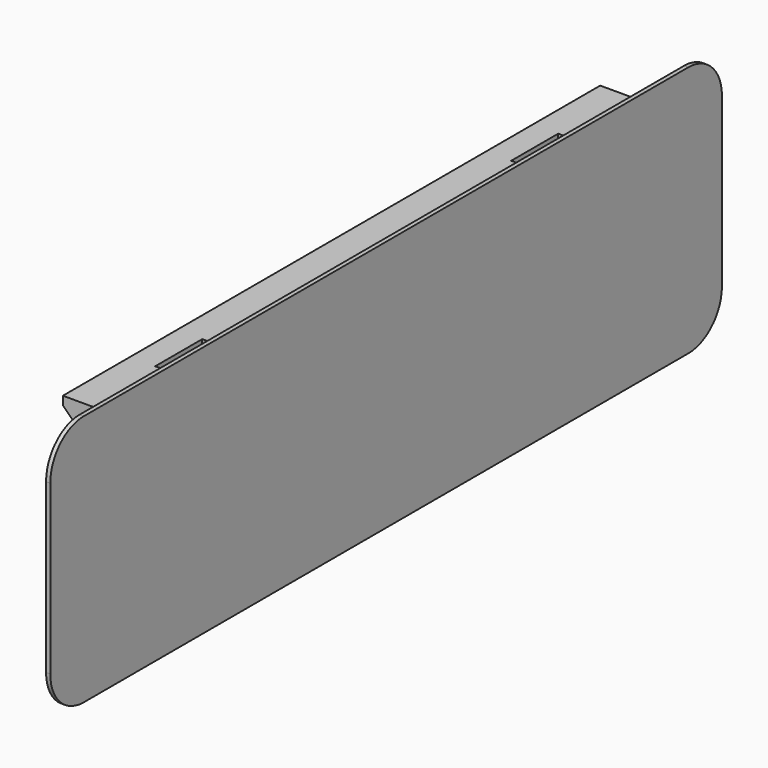
from build123d import *

# Parameters (mm, degrees)
F1_DEPTH = 0.5
F2_W     = 80
F2_H     = 3
F3_DEPTH = 6
F4_W     = 2
F4_H     = 7
F5_DEPTH = 80
F6_SIZE  = 2


with BuildPart() as f1:
    # F0 (on Right) → F1 (new body)
    with BuildSketch(Plane.YZ):
        with BuildLine():
            ThreePointArc((-50, -10), (-48.535534, -13.535534), (-45, -15))
            Line((-45, -15), (45, -15))
            ThreePointArc((45, -15), (48.535534, -13.535534), (50, -10))
            Line((50, -10), (50, 10))
            ThreePointArc((50, 10), (48.535534, 13.535534), (45, 15))
            Line((45, 15), (-45, 15))
            ThreePointArc((-45, 15), (-48.535534, 13.535534), (-50, 10))
            Line((-50, 10), (-50, -10))
        make_face()
    extrude(amount=F1_DEPTH)

    # F2 (on face) → F3 (join)
    with BuildSketch(Plane(origin=(0, 0, 0), x_dir=(0, -1, 0), z_dir=(-1, 0, 0))):
        with Locations((0, 11.5)):
            Rectangle(F2_W, F2_H)
        with Locations((0, -11.5)):
            Rectangle(F2_W, F2_H)
    extrude(amount=F3_DEPTH)

    # F4 (on face) → F5 (cut)
    with BuildSketch(Plane(origin=(0, 0, -13), x_dir=(1, 0, 0), z_dir=(0, 0, -1))):
        with Locations((-2, -26.5)):
            Rectangle(F4_W, F4_H)
        with Locations((-2, 26.5)):
            Rectangle(F4_W, F4_H)
    extrude(amount=-F5_DEPTH, mode=Mode.SUBTRACT)

    # F6
    f6_edges = [f1.edges().sort_by_distance(p)[0] for p in [
        (-6, 0, -10),
        (-6, 0, 10),
    ]]
    chamfer(f6_edges, length=F6_SIZE)


solid = f1.part
